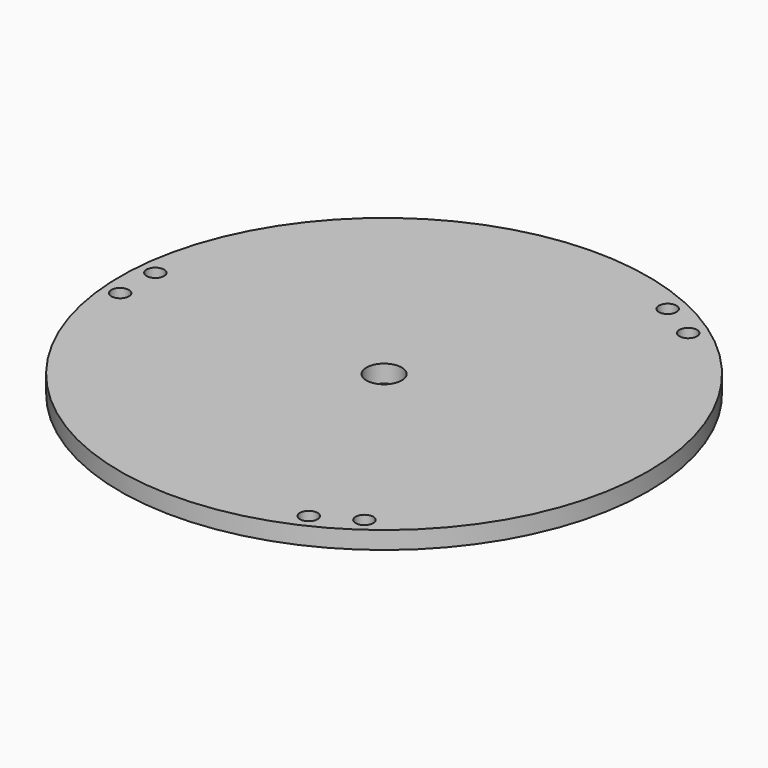
from build123d import *

# Parameters (mm, degrees)
F0_R     = 150
F0_R_2   = 5
F0_R_3   = 10
F1_DEPTH = 10


with BuildPart() as f1:
    # F0 (on Top) → F1 (new body)
    with BuildSketch(Plane.XY):
        Circle(F0_R)
        with Locations((-140, -12.5)):
            Circle(F0_R_2, mode=Mode.SUBTRACT)
        with Locations((59.174682, -127.493557)):
            Circle(F0_R_2, mode=Mode.SUBTRACT)
        with Locations((80.825318, -114.993557)):
            Circle(F0_R_2, mode=Mode.SUBTRACT)
        with Locations((-140, 12.5)):
            Circle(F0_R_2, mode=Mode.SUBTRACT)
        Circle(F0_R_3, mode=Mode.SUBTRACT)
        with Locations((59.174682, 127.493557)):
            Circle(F0_R_2, mode=Mode.SUBTRACT)
        with Locations((80.825318, 114.993557)):
            Circle(F0_R_2, mode=Mode.SUBTRACT)
    extrude(amount=F1_DEPTH)


solid = f1.part
